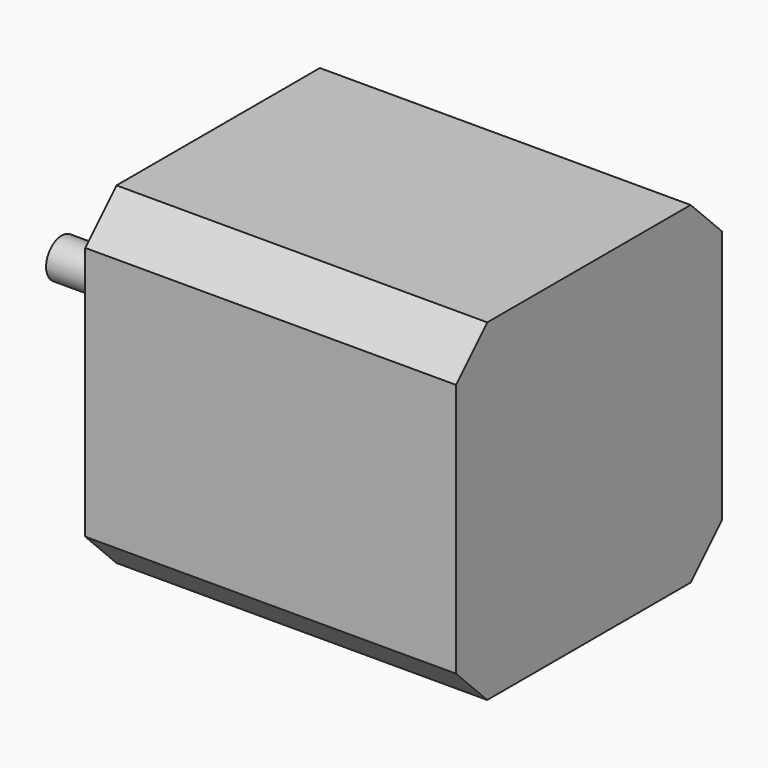
from build123d import *

# Parameters (mm, degrees)
SKETCH052_W             = 42.5
SKETCH052_H             = 42.5
PAD021_DEPTH            = 47.4
CHAMFER013_SIZE         = 5
CHAMFER014_SIZE         = 5
CHAMFER012_SIZE         = 5
CHAMFER015_SIZE         = 5
SKETCH054_R             = 11
PAD020_DEPTH            = 1.5
SKETCH053_R             = 2.5
PAD019_DEPTH            = 18.5
BODY012_PLACEMENT_ANGLE = -90


with BuildPart() as part:
    # Sketch052 → Pad021 (new body)
    with BuildSketch(Plane.XZ):
        Rectangle(SKETCH052_W, SKETCH052_H)
    extrude(amount=-PAD021_DEPTH)

    # Chamfer013
    chamfer013_edges = [part.edges().sort_by_distance(p)[0] for p in [
        (21.25, 23.7, 21.25),
    ]]
    chamfer(chamfer013_edges, length=CHAMFER013_SIZE)

    # Chamfer014
    chamfer014_edges = [part.edges().sort_by_distance(p)[0] for p in [
        (-21.25, 23.7, 21.25),
    ]]
    chamfer(chamfer014_edges, length=CHAMFER014_SIZE)

    # Chamfer012
    chamfer012_edges = [part.edges().sort_by_distance(p)[0] for p in [
        (21.25, 23.7, -21.25),
    ]]
    chamfer(chamfer012_edges, length=CHAMFER012_SIZE)

    # Chamfer015
    chamfer015_edges = [part.edges().sort_by_distance(p)[0] for p in [
        (-21.25, 23.7, -21.25),
    ]]
    chamfer(chamfer015_edges, length=CHAMFER015_SIZE)

    # Sketch054 (on Face1 of Chamfer015) → Pad020 (join)
    with BuildSketch(Plane.XZ):
        Circle(SKETCH054_R)
    extrude(amount=PAD020_DEPTH)

    # Sketch053 (on Face12 of Pad020) → Pad019 (join)
    with BuildSketch(Plane.XZ.offset(1.5)):
        Circle(SKETCH053_R)
    extrude(amount=PAD019_DEPTH)


with BuildPart() as part_1:
    # Body012 placement: moved
    add(part.part.moved(Location((2.25, 0, 150))).rotate(Axis((2.25, 0, 150), (0, 0, 1)), BODY012_PLACEMENT_ANGLE))


solid = part_1.part
